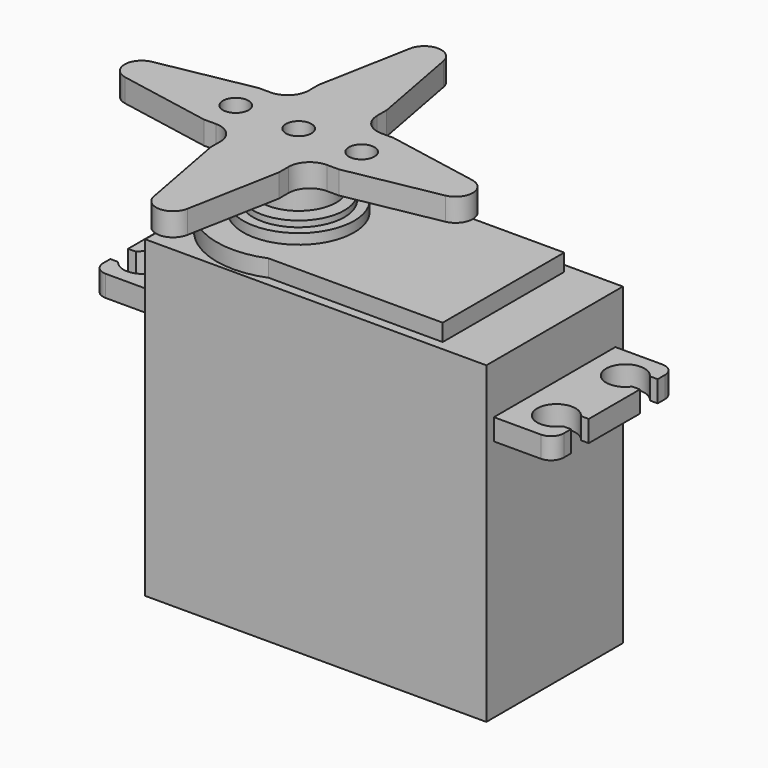
from build123d import *

# Parameters (mm, degrees)
F0_W      = 40
F0_H      = 20
F1_DEPTH  = 28.5
F3_DEPTH  = 2.5
F2_R      = 2.95
F2_R_2    = 1.5
F4_DEPTH  = 16.2
F2_R_3    = 5.35
F5_DEPTH  = 12.2
F2_R_4    = 6.5
F6_DEPTH  = 11.5
F7_DEPTH  = 10.3
F8_DEPTH  = 8.3
F9_DEPTH  = 11.2
F10_R     = 1.5
F11_R     = 4.4
F11_R_2   = 2.95
F12_DEPTH = 3.5
F11_R_3   = 1.5
F13_DEPTH = 2.7


with BuildPart() as f1:
    # F0 (on Top) → F1 (new body)
    with BuildSketch(Plane.XY):
        with Locations((20, 10)):
            Rectangle(F0_W, F0_H)
    extrude(amount=F1_DEPTH)

    # F2 (on face) → F3 (join)
    with BuildSketch(Plane.XY.offset(28.5)):
        with BuildLine():
            Line((-7, 1.1), (0, 1.1))
            Line((0, 1.1), (0, 18.9))
            Line((0, 18.9), (-7, 18.9))
            Line((-7, 18.9), (-7, 16.35))
            Line((-7, 16.35), (-6.0864367672, 16.35))
            ThreePointArc((-6.0864367672, 16.35), (-2, 15.05), (-6.0864367672, 13.75))
            Line((-6.0864367672, 13.75), (-7, 13.75))
            Line((-7, 13.75), (-7, 10))
            Line((-7, 10), (-7, 6.25))
            Line((-7, 6.25), (-6.0864367672, 6.25))
            ThreePointArc((-6.0864367672, 6.25), (-2, 4.95), (-6.0864367672, 3.65))
            Line((-6.0864367672, 3.65), (-7, 3.65))
            Line((-7, 3.65), (-7, 1.1))
        make_face()
        with BuildLine():
            Line((40, 18.9), (40, 1.1))
            Line((40, 1.1), (47, 1.1))
            Line((47, 1.1), (47, 3.65))
            Line((47, 3.65), (46.0864367672, 3.65))
            ThreePointArc((46.0864367672, 3.65), (42, 4.95), (46.0864367672, 6.25))
            Line((46.0864367672, 6.25), (47, 6.25))
            Line((47, 6.25), (47, 10))
            Line((47, 10), (47, 13.75))
            Line((47, 13.75), (46.0864367672, 13.75))
            ThreePointArc((46.0864367672, 13.75), (42, 15.05), (46.0864367672, 16.35))
            Line((46.0864367672, 16.35), (47, 16.35))
            Line((47, 16.35), (47, 18.9))
            Line((47, 18.9), (40, 18.9))
        make_face()
    extrude(amount=F3_DEPTH)

    # F2 (on face) → F4 (join)
    with BuildSketch(Plane.XY.offset(28.5)):
        with Locations((10, 10)):
            Circle(F2_R)
        with Locations((10, 10)):
            Circle(F2_R_2, mode=Mode.SUBTRACT)
    extrude(amount=F4_DEPTH)

    # F2 (on face) → F5 (join)
    with BuildSketch(Plane.XY.offset(28.5)):
        with Locations((10, 10)):
            Circle(F2_R_3)
        with Locations((10, 10)):
            Circle(F2_R, mode=Mode.SUBTRACT)
    extrude(amount=F5_DEPTH)

    # F2 (on face) → F6 (join)
    with BuildSketch(Plane.XY.offset(28.5)):
        with Locations((10, 10)):
            Circle(F2_R_4)
        with Locations((10, 10)):
            Circle(F2_R_3, mode=Mode.SUBTRACT)
    extrude(amount=F6_DEPTH)

    # F2 (on face) → F7 (join)
    with BuildSketch(Plane.XY.offset(28.5)):
        with BuildLine():
            Line((34, 18.9), (13.5986108431, 18.9))
            ThreePointArc((13.5986108431, 18.9), (0.4, 10), (13.5986108431, 1.1))
            Line((13.5986108431, 1.1), (34, 1.1))
            Line((34, 1.1), (34, 18.9))
        make_face()
        with Locations((10, 10)):
            Circle(F2_R_4, mode=Mode.SUBTRACT)
    extrude(amount=F7_DEPTH)

    # F2 (on face) → F8 (join)
    with BuildSketch(Plane.XY.offset(28.5)):
        Polygon((0, 1.1), (0, 0), (40, 0), (40, 1.1), (40, 18.9), (40, 20), (20, 20), (0, 20), (0, 18.9), align=None)
        with BuildLine():
            ThreePointArc((13.5986108431, 1.1), (0.4, 10), (13.5986108431, 18.9))
            Line((13.5986108431, 18.9), (34, 18.9))
            Line((34, 18.9), (34, 1.1))
            Line((34, 1.1), (13.5986108431, 1.1))
        make_face(mode=Mode.SUBTRACT)
    extrude(amount=F8_DEPTH)

    # F2 (on face) → F9 (join)
    with BuildSketch(Plane.XY.offset(28.5)):
        with Locations((10, 10)):
            Circle(F2_R_2)
    extrude(amount=F9_DEPTH)

    # F10
    f10_edges = [f1.edges().sort_by_distance(p)[0] for p in [
        (-7, 1.1, 29.75),
        (-7, 18.9, 29.75),
        (47, 1.1, 29.75),
        (47, 18.9, 29.75),
    ]]
    fillet(f10_edges, radius=F10_R)


with BuildPart() as f12:
    # F11 (on face) → F12 (new body)
    with BuildSketch(Plane.XY.offset(44.7)):
        with Locations((10, 10)):
            Circle(F11_R)
        with Locations((10, 10)):
            Circle(F11_R_2, mode=Mode.SUBTRACT)
    extrude(amount=-F12_DEPTH)

    # F11 (on face) → F13 (join)
    with BuildSketch(Plane.XY.offset(44.7)):
        with BuildLine():
            Line((17.9, 14), (16.5, 14))
            ThreePointArc((16.5, 14), (14.732233047, 14.732233047), (14, 16.5))
            Line((14, 16.5), (14, 17.9))
            Line((14, 17.9), (11.9658623055, 28.767947545))
            ThreePointArc((11.9658623055, 28.767947545), (10, 30.4), (8.0341376945, 28.767947545))
            Line((8.0341376945, 28.767947545), (6, 17.9))
            Line((6, 17.9), (6, 16.5))
            ThreePointArc((6, 16.5), (5.267766953, 14.732233047), (3.5, 14))
            Line((3.5, 14), (2.1, 14))
            Line((2.1, 14), (-8.767947545, 11.9658623055))
            ThreePointArc((-8.767947545, 11.9658623055), (-10.4, 10), (-8.767947545, 8.0341376945))
            Line((-8.767947545, 8.0341376945), (2.1, 6))
            Line((2.1, 6), (3.5, 6))
            ThreePointArc((3.5, 6), (5.267766953, 5.267766953), (6, 3.5))
            Line((6, 3.5), (6, 2.1))
            Line((6, 2.1), (8.0341376945, -8.767947545))
            ThreePointArc((8.0341376945, -8.767947545), (10, -10.4), (11.9658623055, -8.767947545))
            Line((11.9658623055, -8.767947545), (14, 2.1))
            Line((14, 2.1), (14, 3.5))
            ThreePointArc((14, 3.5), (14.732233047, 5.267766953), (16.5, 6))
            Line((16.5, 6), (17.9, 6))
            Line((17.9, 6), (28.767947545, 8.0341376945))
            ThreePointArc((28.767947545, 8.0341376945), (30.4, 10), (28.767947545, 11.9658623055))
            Line((28.767947545, 11.9658623055), (17.9, 14))
        make_face()
        with Locations((2.62, 10)):
            Circle(F11_R_3, mode=Mode.SUBTRACT)
        with Locations((10, 10)):
            Circle(F11_R, mode=Mode.SUBTRACT)
        with Locations((17.38, 10)):
            Circle(F11_R_3, mode=Mode.SUBTRACT)
        with Locations((10, 10)):
            Circle(F11_R)
        with Locations((10, 10)):
            Circle(F11_R_2, mode=Mode.SUBTRACT)
        with Locations((10, 10)):
            Circle(F11_R_2)
        with Locations((10, 10)):
            Circle(F11_R_3, mode=Mode.SUBTRACT)
    extrude(amount=F13_DEPTH)


solid = Compound([f1.part, f12.part])
